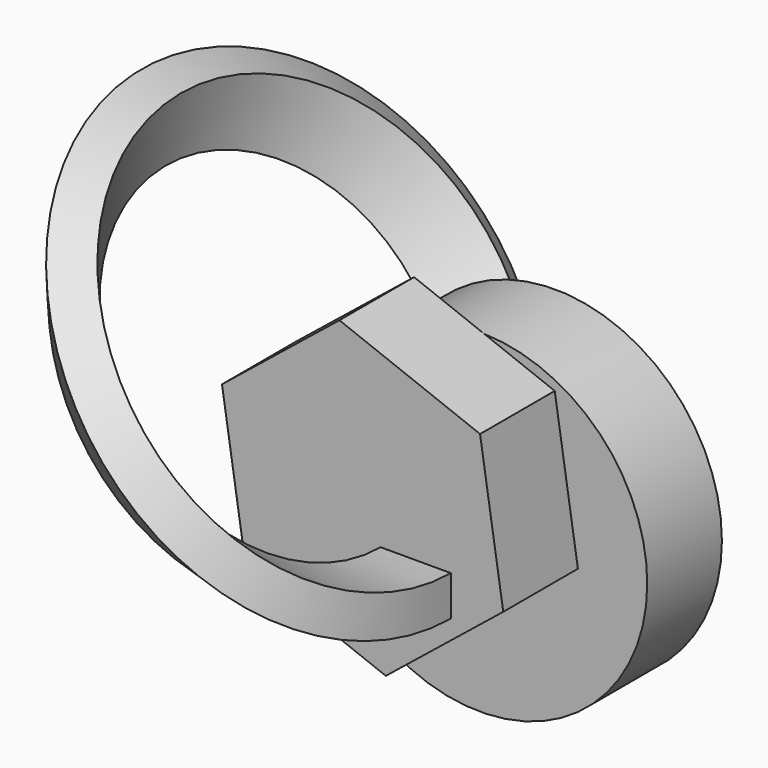
from build123d import *

# Parameters (mm, degrees)
F0_R     = 45.453378
F1_DEPTH = 25.4
F3_DEPTH = 25.4
F4_W     = 19.075925
F4_H     = 10.899786


with BuildPart() as f1:
    # F0 (on Front) → F1 (new body)
    with BuildSketch(Plane.XZ):
        with Locations((-0.326774, -2.101401)):
            Circle(F0_R)
    extrude(amount=F1_DEPTH)

    # F2 (on face) → F3 (join)
    with BuildSketch(Plane.XZ.offset(25.4)):
        Polygon((26.258245, -4.635622), (19.949142, 35.913156), (-18.321682, 50.723701), (-50.283402, 24.985468), (-43.974299, -15.563311), (-5.703475, -30.373856), align=None)
    extrude(amount=F3_DEPTH)

    # F4 (on face) → F5 (revolve)
    with BuildSketch(Plane.XZ.offset(50.8)):
        with Locations((2.4393, -5.449893)):
            Rectangle(F4_W, F4_H)
    revolve(axis=Axis((-34.302542, -50.8, 37.854584), (-0.778858, 0, -0.627201)))


solid = f1.part
